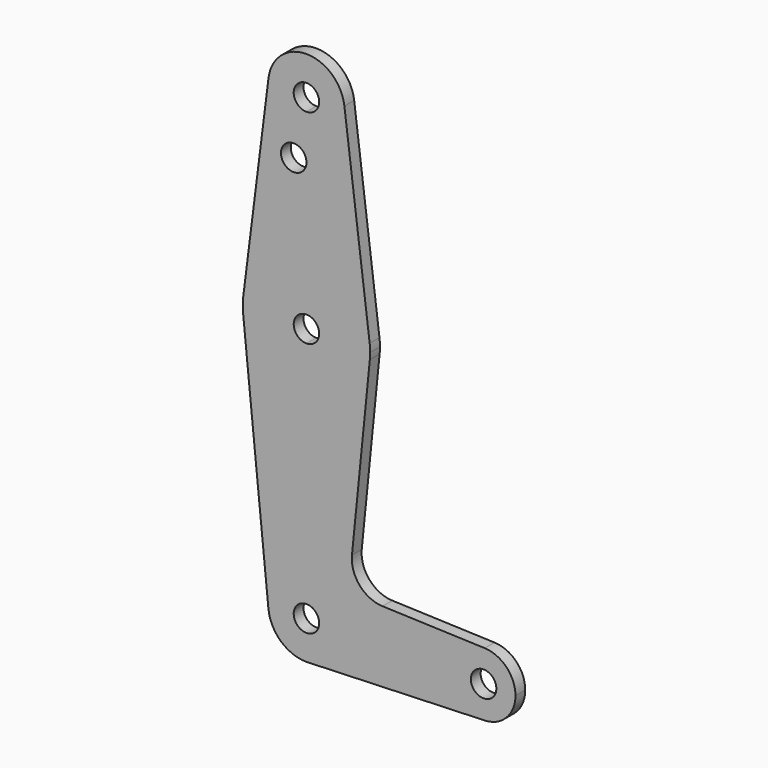
from build123d import *

# Parameters (mm, degrees)
F0_R     = 3.175
F1_DEPTH = 3.048
F2_DEPTH = 3.048
F3_DEPTH = 3.048


with BuildPart() as f1:
    # F0 (on Front) → F1 (new body)
    with BuildSketch(Plane.XZ):
        with BuildLine():
            ThreePointArc((-9.4502929642, 115.490625), (-7.14375, 107.9998046905), (0, 104.775))
            ThreePointArc((0, 104.775), (6.7351920908, 107.5648079092), (9.525, 114.3))
            ThreePointArc((9.525, 114.3), (9.5063048942, 114.896483242), (9.4502929642, 115.490625))
            ThreePointArc((9.4502929642, 115.490625), (0, 123.825), (-9.4502929642, 115.490625))
        make_face()
        with BuildLine():
            ThreePointArc((3.175, 114.3), (2.2450640303, 112.0549359697), (0, 111.125))
            ThreePointArc((0, 111.125), (-2.2450640303, 116.5450640303), (3.175, 114.3))
        make_face(mode=Mode.SUBTRACT)
        with BuildLine():
            ThreePointArc((9.525, 114.3), (6.7351920908, 107.5648079092), (0, 104.775))
            Line((0, 104.775), (0, 100.0252))
            Line((0, 100.0252), (0, 79.375))
            ThreePointArc((0, 79.375), (10.5003255158, 75.40625), (15.7504882737, 65.484375))
            Line((15.7504882737, 65.484375), (9.4502929642, 115.490625))
            ThreePointArc((9.4502929642, 115.490625), (9.5063048942, 114.896483242), (9.525, 114.3))
        make_face()
        with BuildLine():
            Line((0, 100.0252), (0, 104.775))
            ThreePointArc((0, 104.775), (-7.14375, 107.9998046905), (-9.4502929642, 115.490625))
            Line((-9.4502929642, 115.490625), (-15.7504882737, 65.484375))
            ThreePointArc((-15.7504882737, 65.484375), (-10.5003255158, 75.40625), (0, 79.375))
            Line((0, 79.375), (0, 100.0252))
        make_face()
        with Locations((-3.175, 100.0252)):
            Circle(F0_R, mode=Mode.SUBTRACT)
        with BuildLine():
            ThreePointArc((15.7504882737, 65.484375), (10.5003255158, 75.40625), (0, 79.375))
            Line((0, 79.375), (0, 66.675))
            ThreePointArc((0, 66.675), (2.2450640303, 65.7450640303), (3.175, 63.5))
            ThreePointArc((3.175, 63.5), (2.2450640303, 61.2549359697), (0, 60.325))
            Line((0, 60.325), (0, 47.625))
            ThreePointArc((0, 47.625), (10.6492737428, 51.7267849017), (15.7954255641, 61.9125))
            ThreePointArc((15.7954255641, 61.9125), (15.8550939106, 62.7052534459), (15.875, 63.5))
            ThreePointArc((15.875, 63.5), (15.8438414904, 64.4941387366), (15.7504882737, 65.484375))
        make_face()
        with BuildLine():
            Line((0, 66.675), (0, 79.375))
            ThreePointArc((0, 79.375), (-10.5003255158, 75.40625), (-15.7504882737, 65.484375))
            ThreePointArc((-15.7504882737, 65.484375), (-15.8737438155, 63.6997054867), (-15.7954255641, 61.9125))
            ThreePointArc((-15.7954255641, 61.9125), (-10.6492737428, 51.7267849017), (0, 47.625))
            Line((0, 47.625), (0, 60.325))
            ThreePointArc((0, 60.325), (-3.175, 63.5), (0, 66.675))
        make_face()
        with BuildLine():
            ThreePointArc((0, 47.625), (-10.6492737428, 51.7267849017), (-15.7954255641, 61.9125))
            Line((-15.7954255641, 61.9125), (-9.4772553384, -0.9525))
            ThreePointArc((-9.4772553384, -0.9525), (-7.063929059, 6.3895642457), (0, 9.525))
            Line((0, 9.525), (0, 47.625))
        make_face()
        with BuildLine():
            ThreePointArc((15.7954255641, 61.9125), (10.6492737428, 51.7267849017), (0, 47.625))
            Line((0, 47.625), (0, 9.525))
            ThreePointArc((0, 9.525), (6.7351920908, 6.7351920908), (9.525, 0))
            Line((9.525, 0), (36.1995681089, 0))
            ThreePointArc((36.1995681089, 0), (38.6262690177, 5.7127051058), (44.4225601407, 7.9323641211))
            Line((44.4225601407, 7.9323641211), (18.9651136997, 8.8485976672))
            ThreePointArc((18.9651136997, 8.8485976672), (13.2600645479, 11.5674098574), (11.3407133962, 17.5886735709))
            Line((11.3407133962, 17.5886735709), (15.7954255641, 61.9125))
        make_face()
        with BuildLine():
            ThreePointArc((0, 9.525), (-7.063929059, 6.3895642457), (-9.4772553384, -0.9525))
            ThreePointArc((-9.4772553384, -0.9525), (-6.3895642457, -7.063929059), (0, -9.525))
            Line((0, -9.525), (0.682103068, -9.5005452688))
            ThreePointArc((0.682103068, -9.5005452688), (6.9721824676, -6.4895528844), (9.525, 0))
            Line((9.525, 0), (3.175, 0))
            ThreePointArc((3.175, 0), (-2.2450640303, -2.2450640303), (0, 3.175))
            Line((0, 3.175), (0, 9.525))
        make_face()
        with BuildLine():
            Line((0.682103068, -9.5005452688), (0, -9.525))
            ThreePointArc((0, -9.525), (0.3412706511, -9.5188843539), (0.682103068, -9.5005452688))
        make_face()
        with BuildLine():
            Line((36.1995681089, 0), (9.525, 0))
            ThreePointArc((9.525, 0), (6.9721824676, -6.4895528844), (0.682103068, -9.5005452688))
            Line((0.682103068, -9.5005452688), (44.4214603181, -7.9324036282))
            ThreePointArc((44.4214603181, -7.9324036282), (38.6258729985, -5.7123230568), (36.1995681089, 0))
        make_face()
        with BuildLine():
            ThreePointArc((44.4225601407, 7.9323641211), (38.6262690177, 5.7127051058), (36.1995681089, 0))
            ThreePointArc((36.1995681089, 0), (38.6258729985, -5.7123230568), (44.4214603181, -7.9324036282))
            ThreePointArc((44.4214603181, -7.9324036282), (49.8493911657, -5.5111951104), (52.0745681089, 0))
            ThreePointArc((52.0745681089, 0), (49.8497732147, 5.5107990912), (44.4225601407, 7.9323641211))
        make_face()
        with BuildLine():
            ThreePointArc((47.3120681089, 0), (44.1370681089, -3.175), (40.9620681089, 0))
            ThreePointArc((40.9620681089, 0), (44.1370681089, 3.175), (47.3120681089, 0))
        make_face(mode=Mode.SUBTRACT)
    extrude(amount=F1_DEPTH)

    # F0 (on Front) → F2 (join)
    with BuildSketch(Plane.XZ):
        with BuildLine():
            ThreePointArc((-9.4502929642, 115.490625), (-7.14375, 107.9998046905), (0, 104.775))
            ThreePointArc((0, 104.775), (6.7351920908, 107.5648079092), (9.525, 114.3))
            ThreePointArc((9.525, 114.3), (9.5063048942, 114.896483242), (9.4502929642, 115.490625))
            ThreePointArc((9.4502929642, 115.490625), (0, 123.825), (-9.4502929642, 115.490625))
        make_face()
        with BuildLine():
            ThreePointArc((3.175, 114.3), (2.2450640303, 112.0549359697), (0, 111.125))
            ThreePointArc((0, 111.125), (-2.2450640303, 116.5450640303), (3.175, 114.3))
        make_face(mode=Mode.SUBTRACT)
        with BuildLine():
            ThreePointArc((9.525, 114.3), (6.7351920908, 107.5648079092), (0, 104.775))
            Line((0, 104.775), (0, 100.0252))
            Line((0, 100.0252), (0, 79.375))
            ThreePointArc((0, 79.375), (10.5003255158, 75.40625), (15.7504882737, 65.484375))
            Line((15.7504882737, 65.484375), (9.4502929642, 115.490625))
            ThreePointArc((9.4502929642, 115.490625), (9.5063048942, 114.896483242), (9.525, 114.3))
        make_face()
        with BuildLine():
            Line((0, 100.0252), (0, 104.775))
            ThreePointArc((0, 104.775), (-7.14375, 107.9998046905), (-9.4502929642, 115.490625))
            Line((-9.4502929642, 115.490625), (-15.7504882737, 65.484375))
            ThreePointArc((-15.7504882737, 65.484375), (-10.5003255158, 75.40625), (0, 79.375))
            Line((0, 79.375), (0, 100.0252))
        make_face()
        with Locations((-3.175, 100.0252)):
            Circle(F0_R, mode=Mode.SUBTRACT)
        with BuildLine():
            ThreePointArc((15.7504882737, 65.484375), (10.5003255158, 75.40625), (0, 79.375))
            Line((0, 79.375), (0, 66.675))
            ThreePointArc((0, 66.675), (2.2450640303, 65.7450640303), (3.175, 63.5))
            ThreePointArc((3.175, 63.5), (2.2450640303, 61.2549359697), (0, 60.325))
            Line((0, 60.325), (0, 47.625))
            ThreePointArc((0, 47.625), (10.6492737428, 51.7267849017), (15.7954255641, 61.9125))
            ThreePointArc((15.7954255641, 61.9125), (15.8550939106, 62.7052534459), (15.875, 63.5))
            ThreePointArc((15.875, 63.5), (15.8438414904, 64.4941387366), (15.7504882737, 65.484375))
        make_face()
        with BuildLine():
            Line((0, 66.675), (0, 79.375))
            ThreePointArc((0, 79.375), (-10.5003255158, 75.40625), (-15.7504882737, 65.484375))
            ThreePointArc((-15.7504882737, 65.484375), (-15.8737438155, 63.6997054867), (-15.7954255641, 61.9125))
            ThreePointArc((-15.7954255641, 61.9125), (-10.6492737428, 51.7267849017), (0, 47.625))
            Line((0, 47.625), (0, 60.325))
            ThreePointArc((0, 60.325), (-3.175, 63.5), (0, 66.675))
        make_face()
        with BuildLine():
            ThreePointArc((0, 47.625), (-10.6492737428, 51.7267849017), (-15.7954255641, 61.9125))
            Line((-15.7954255641, 61.9125), (-9.4772553384, -0.9525))
            ThreePointArc((-9.4772553384, -0.9525), (-7.063929059, 6.3895642457), (0, 9.525))
            Line((0, 9.525), (0, 47.625))
        make_face()
        with BuildLine():
            ThreePointArc((15.7954255641, 61.9125), (10.6492737428, 51.7267849017), (0, 47.625))
            Line((0, 47.625), (0, 9.525))
            ThreePointArc((0, 9.525), (6.7351920908, 6.7351920908), (9.525, 0))
            Line((9.525, 0), (36.1995681089, 0))
            ThreePointArc((36.1995681089, 0), (38.6262690177, 5.7127051058), (44.4225601407, 7.9323641211))
            Line((44.4225601407, 7.9323641211), (18.9651136997, 8.8485976672))
            ThreePointArc((18.9651136997, 8.8485976672), (13.2600645479, 11.5674098574), (11.3407133962, 17.5886735709))
            Line((11.3407133962, 17.5886735709), (15.7954255641, 61.9125))
        make_face()
        with BuildLine():
            ThreePointArc((0, 9.525), (-7.063929059, 6.3895642457), (-9.4772553384, -0.9525))
            ThreePointArc((-9.4772553384, -0.9525), (-6.3895642457, -7.063929059), (0, -9.525))
            Line((0, -9.525), (0.682103068, -9.5005452688))
            ThreePointArc((0.682103068, -9.5005452688), (6.9721824676, -6.4895528844), (9.525, 0))
            Line((9.525, 0), (3.175, 0))
            ThreePointArc((3.175, 0), (-2.2450640303, -2.2450640303), (0, 3.175))
            Line((0, 3.175), (0, 9.525))
        make_face()
        with BuildLine():
            Line((0.682103068, -9.5005452688), (0, -9.525))
            ThreePointArc((0, -9.525), (0.3412706511, -9.5188843539), (0.682103068, -9.5005452688))
        make_face()
        with BuildLine():
            Line((36.1995681089, 0), (9.525, 0))
            ThreePointArc((9.525, 0), (6.9721824676, -6.4895528844), (0.682103068, -9.5005452688))
            Line((0.682103068, -9.5005452688), (44.4214603181, -7.9324036282))
            ThreePointArc((44.4214603181, -7.9324036282), (38.6258729985, -5.7123230568), (36.1995681089, 0))
        make_face()
        with BuildLine():
            ThreePointArc((44.4225601407, 7.9323641211), (38.6262690177, 5.7127051058), (36.1995681089, 0))
            ThreePointArc((36.1995681089, 0), (38.6258729985, -5.7123230568), (44.4214603181, -7.9324036282))
            ThreePointArc((44.4214603181, -7.9324036282), (49.8493911657, -5.5111951104), (52.0745681089, 0))
            ThreePointArc((52.0745681089, 0), (49.8497732147, 5.5107990912), (44.4225601407, 7.9323641211))
        make_face()
        with BuildLine():
            ThreePointArc((47.3120681089, 0), (44.1370681089, -3.175), (40.9620681089, 0))
            ThreePointArc((40.9620681089, 0), (44.1370681089, 3.175), (47.3120681089, 0))
        make_face(mode=Mode.SUBTRACT)
    extrude(amount=F2_DEPTH)

    # F0 (on Front) → F3 (join)
    with BuildSketch(Plane.XZ):
        with BuildLine():
            ThreePointArc((-9.4502929642, 115.490625), (-7.14375, 107.9998046905), (0, 104.775))
            ThreePointArc((0, 104.775), (6.7351920908, 107.5648079092), (9.525, 114.3))
            ThreePointArc((9.525, 114.3), (9.5063048942, 114.896483242), (9.4502929642, 115.490625))
            ThreePointArc((9.4502929642, 115.490625), (0, 123.825), (-9.4502929642, 115.490625))
        make_face()
        with BuildLine():
            ThreePointArc((3.175, 114.3), (2.2450640303, 112.0549359697), (0, 111.125))
            ThreePointArc((0, 111.125), (-2.2450640303, 116.5450640303), (3.175, 114.3))
        make_face(mode=Mode.SUBTRACT)
        with BuildLine():
            ThreePointArc((9.525, 114.3), (6.7351920908, 107.5648079092), (0, 104.775))
            Line((0, 104.775), (0, 100.0252))
            Line((0, 100.0252), (0, 79.375))
            ThreePointArc((0, 79.375), (10.5003255158, 75.40625), (15.7504882737, 65.484375))
            Line((15.7504882737, 65.484375), (9.4502929642, 115.490625))
            ThreePointArc((9.4502929642, 115.490625), (9.5063048942, 114.896483242), (9.525, 114.3))
        make_face()
        with BuildLine():
            Line((0, 100.0252), (0, 104.775))
            ThreePointArc((0, 104.775), (-7.14375, 107.9998046905), (-9.4502929642, 115.490625))
            Line((-9.4502929642, 115.490625), (-15.7504882737, 65.484375))
            ThreePointArc((-15.7504882737, 65.484375), (-10.5003255158, 75.40625), (0, 79.375))
            Line((0, 79.375), (0, 100.0252))
        make_face()
        with Locations((-3.175, 100.0252)):
            Circle(F0_R, mode=Mode.SUBTRACT)
        with BuildLine():
            ThreePointArc((15.7504882737, 65.484375), (10.5003255158, 75.40625), (0, 79.375))
            Line((0, 79.375), (0, 66.675))
            ThreePointArc((0, 66.675), (2.2450640303, 65.7450640303), (3.175, 63.5))
            ThreePointArc((3.175, 63.5), (2.2450640303, 61.2549359697), (0, 60.325))
            Line((0, 60.325), (0, 47.625))
            ThreePointArc((0, 47.625), (10.6492737428, 51.7267849017), (15.7954255641, 61.9125))
            ThreePointArc((15.7954255641, 61.9125), (15.8550939106, 62.7052534459), (15.875, 63.5))
            ThreePointArc((15.875, 63.5), (15.8438414904, 64.4941387366), (15.7504882737, 65.484375))
        make_face()
        with BuildLine():
            Line((0, 66.675), (0, 79.375))
            ThreePointArc((0, 79.375), (-10.5003255158, 75.40625), (-15.7504882737, 65.484375))
            ThreePointArc((-15.7504882737, 65.484375), (-15.8737438155, 63.6997054867), (-15.7954255641, 61.9125))
            ThreePointArc((-15.7954255641, 61.9125), (-10.6492737428, 51.7267849017), (0, 47.625))
            Line((0, 47.625), (0, 60.325))
            ThreePointArc((0, 60.325), (-3.175, 63.5), (0, 66.675))
        make_face()
        with BuildLine():
            ThreePointArc((0, 47.625), (-10.6492737428, 51.7267849017), (-15.7954255641, 61.9125))
            Line((-15.7954255641, 61.9125), (-9.4772553384, -0.9525))
            ThreePointArc((-9.4772553384, -0.9525), (-7.063929059, 6.3895642457), (0, 9.525))
            Line((0, 9.525), (0, 47.625))
        make_face()
        with BuildLine():
            ThreePointArc((15.7954255641, 61.9125), (10.6492737428, 51.7267849017), (0, 47.625))
            Line((0, 47.625), (0, 9.525))
            ThreePointArc((0, 9.525), (6.7351920908, 6.7351920908), (9.525, 0))
            Line((9.525, 0), (36.1995681089, 0))
            ThreePointArc((36.1995681089, 0), (38.6262690177, 5.7127051058), (44.4225601407, 7.9323641211))
            Line((44.4225601407, 7.9323641211), (18.9651136997, 8.8485976672))
            ThreePointArc((18.9651136997, 8.8485976672), (13.2600645479, 11.5674098574), (11.3407133962, 17.5886735709))
            Line((11.3407133962, 17.5886735709), (15.7954255641, 61.9125))
        make_face()
        with BuildLine():
            ThreePointArc((0, 9.525), (-7.063929059, 6.3895642457), (-9.4772553384, -0.9525))
            ThreePointArc((-9.4772553384, -0.9525), (-6.3895642457, -7.063929059), (0, -9.525))
            Line((0, -9.525), (0.682103068, -9.5005452688))
            ThreePointArc((0.682103068, -9.5005452688), (6.9721824676, -6.4895528844), (9.525, 0))
            Line((9.525, 0), (3.175, 0))
            ThreePointArc((3.175, 0), (-2.2450640303, -2.2450640303), (0, 3.175))
            Line((0, 3.175), (0, 9.525))
        make_face()
        with BuildLine():
            Line((0.682103068, -9.5005452688), (0, -9.525))
            ThreePointArc((0, -9.525), (0.3412706511, -9.5188843539), (0.682103068, -9.5005452688))
        make_face()
        with BuildLine():
            Line((36.1995681089, 0), (9.525, 0))
            ThreePointArc((9.525, 0), (6.9721824676, -6.4895528844), (0.682103068, -9.5005452688))
            Line((0.682103068, -9.5005452688), (44.4214603181, -7.9324036282))
            ThreePointArc((44.4214603181, -7.9324036282), (38.6258729985, -5.7123230568), (36.1995681089, 0))
        make_face()
        with BuildLine():
            ThreePointArc((44.4225601407, 7.9323641211), (38.6262690177, 5.7127051058), (36.1995681089, 0))
            ThreePointArc((36.1995681089, 0), (38.6258729985, -5.7123230568), (44.4214603181, -7.9324036282))
            ThreePointArc((44.4214603181, -7.9324036282), (49.8493911657, -5.5111951104), (52.0745681089, 0))
            ThreePointArc((52.0745681089, 0), (49.8497732147, 5.5107990912), (44.4225601407, 7.9323641211))
        make_face()
        with BuildLine():
            ThreePointArc((47.3120681089, 0), (44.1370681089, -3.175), (40.9620681089, 0))
            ThreePointArc((40.9620681089, 0), (44.1370681089, 3.175), (47.3120681089, 0))
        make_face(mode=Mode.SUBTRACT)
        with BuildLine():
            ThreePointArc((9.525, 0), (6.7351920908, 6.7351920908), (0, 9.525))
            Line((0, 9.525), (0, 3.175))
            ThreePointArc((0, 3.175), (2.2450640303, 2.2450640303), (3.175, 0))
            Line((3.175, 0), (9.525, 0))
        make_face()
    extrude(amount=F3_DEPTH)


solid = f1.part
